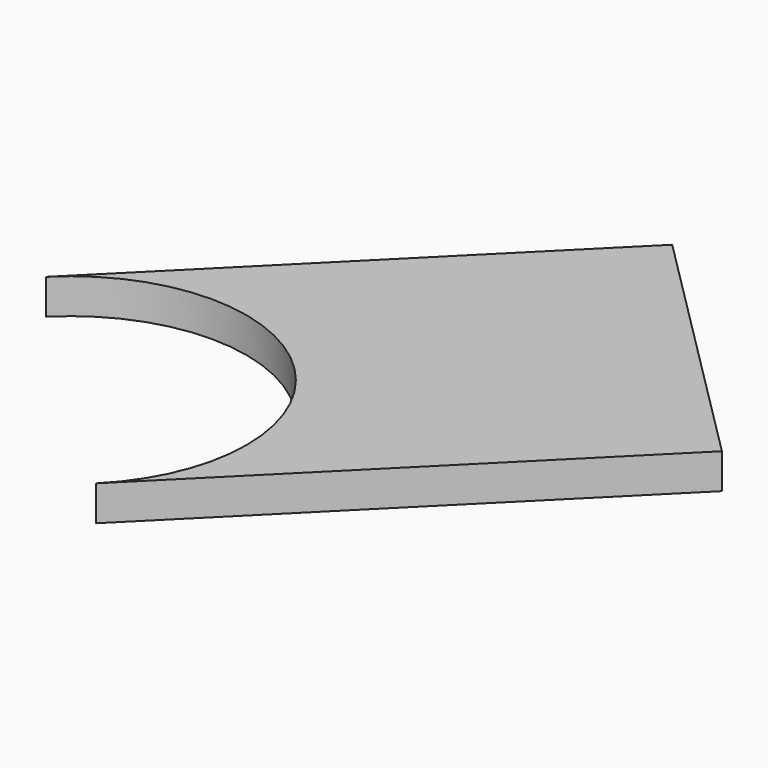
from build123d import *

# Parameters (mm, degrees)
SKETCH010_AS_DRAWN_R                      = 3
EXTRUDE009_DEPTH                          = 40
EXTRUDE009_ONTO_SKETCH010_PLACEMENT_ANGLE = 9
EXTRUDE001_DEPTH                          = 5
EXTRUDE001_PLACEMENT_ANGLE                = 45


with BuildPart() as extrude009:
    # Sketch010 as drawn → Extrude009 (new)
    with BuildSketch(Plane.XY):
        Circle(SKETCH010_AS_DRAWN_R)
    extrude(amount=-EXTRUDE009_DEPTH)


with BuildPart() as extrude009_1:
    # Extrude009 onto Sketch010 placement: moved
    add(extrude009.part.moved(Location((-32, -32, 30))).rotate(Axis((-32, -32, 30), (0, 0, -1)), EXTRUDE009_ONTO_SKETCH010_PLACEMENT_ANGLE))


with BuildPart() as cut003:
    # Sketch001 (on Face7 of Extrude) → Extrude001 (new body)
    with BuildSketch(Plane.XY.offset(17)):
        with BuildLine():
            Line((25, 0), (25, 70))
            Line((25, 70), (-25, 70))
            Line((-25, 70), (-25, 0))
            ThreePointArc((25, 0), (0, 25), (-25, 0))
        make_face()
    extrude(amount=-EXTRUDE001_DEPTH)


with BuildPart() as cut003_1:
    # Extrude001 placement: moved
    add(cut003.part.rotate(Axis((0, 0, 0), (0, 0, -1)), EXTRUDE001_PLACEMENT_ANGLE))

    # Cut003: cut Extrude009
    add(extrude009_1.part, mode=Mode.SUBTRACT)


solid = cut003_1.part
